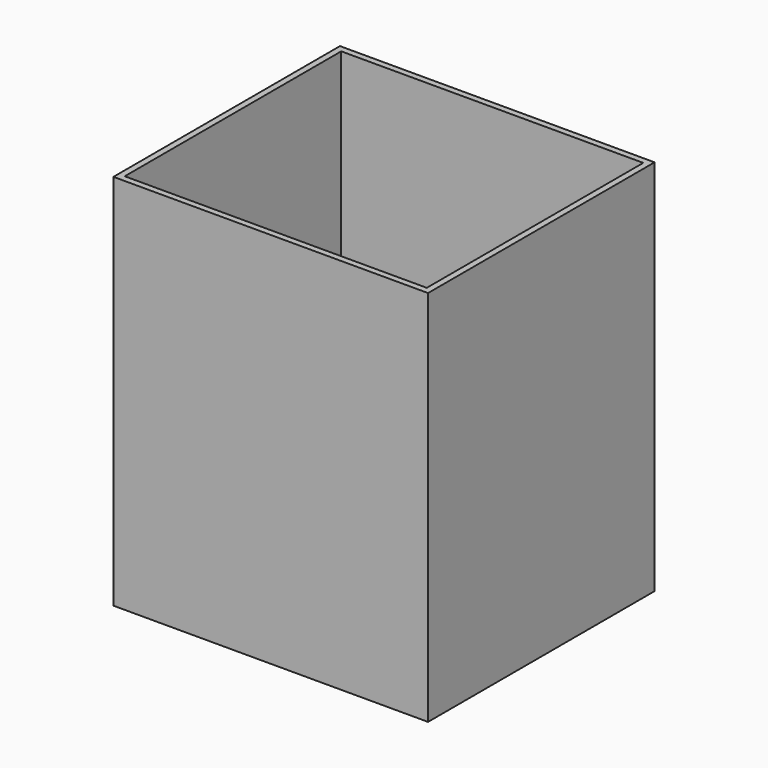
from build123d import *

# Parameters (mm, degrees)
SKETCH004_W  = 48
SKETCH004_H  = 43
PAD012_DEPTH = 60
SKETCH003_W  = 50
SKETCH003_H  = 45
PAD011_DEPTH = 60


with BuildPart() as body004:
    # Sketch004 → Pad012 (new body)
    with BuildSketch(Plane.XY.offset(-39)):
        Rectangle(SKETCH004_W, SKETCH004_H)
    extrude(amount=PAD012_DEPTH)


with BuildPart() as body004_1:
    # Body004 placement: moved
    add(body004.part.moved(Location((0, -37.9, -17))))


with BuildPart() as cut:
    # Sketch003 → Pad011 (new body)
    with BuildSketch(Plane.XY.offset(-40)):
        Rectangle(SKETCH003_W, SKETCH003_H)
    extrude(amount=PAD011_DEPTH)


with BuildPart() as cut_1:
    # Body003 placement: moved
    add(cut.part.moved(Location((0, -37.9, -18))))

    # Cut: cut Body004
    add(body004_1.part, mode=Mode.SUBTRACT)


solid = cut_1.part
